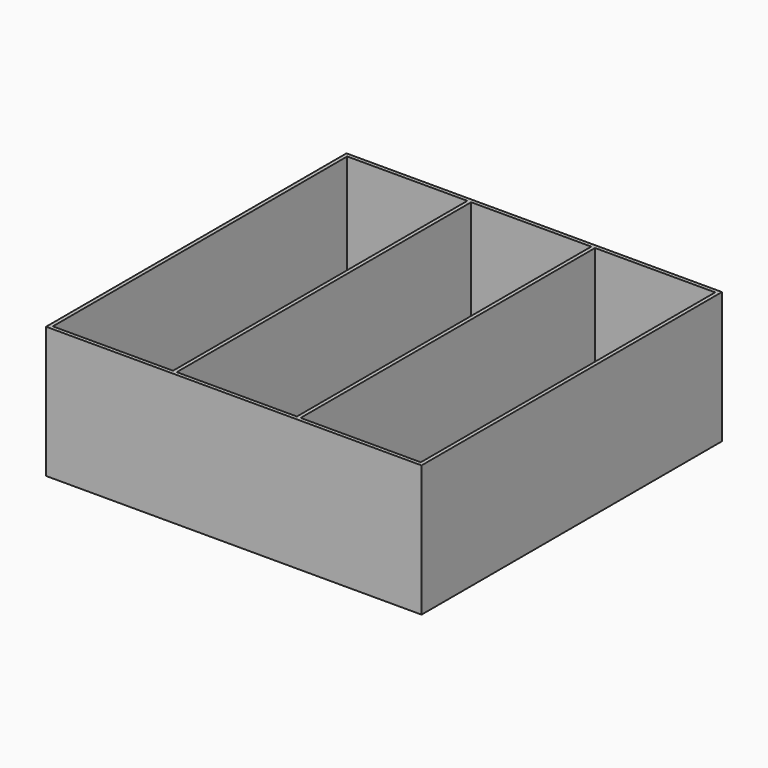
from build123d import *

# Parameters (mm, degrees)
F0_W     = 200
F0_H     = 200
F1_DEPTH = 70
F2_T     = -2
F3_W     = 2
F3_H     = 196
F4_DEPTH = 68
F5_W     = 54
F5_H     = 186
F6_DEPTH = 2


with BuildPart() as f1:
    # F0 (on Top) → F1 (new body)
    with BuildSketch(Plane.XY):
        Rectangle(F0_W, F0_H)
    extrude(amount=F1_DEPTH)

    # F2
    f2_openings = [f1.faces().sort_by_distance(p)[0] for p in [
        (0, 0, 70),
    ]]
    offset(amount=F2_T, openings=f2_openings)

    # F3 (on face) → F4 (join)
    with BuildSketch(Plane.XY.offset(2)):
        with Locations((-33, 0)):
            Rectangle(F3_W, F3_H)
        with Locations((33, 0)):
            Rectangle(F3_W, F3_H)
    extrude(amount=F4_DEPTH)

    # F5 (on face) → F6 (cut, through all)
    with BuildSketch(Plane.XY.offset(2)):
        Polygon((-73, 93), (-93, 93), (-93, 70.5273523927), (-93, 53), (-93, -93), (-39, -93), (-39, 53), (-39, 93), align=None)
        Rectangle(F5_W, F5_H)
        with Locations((66, 0)):
            Rectangle(F5_W, F5_H)
    extrude(amount=-F6_DEPTH, mode=Mode.SUBTRACT)


solid = f1.part
